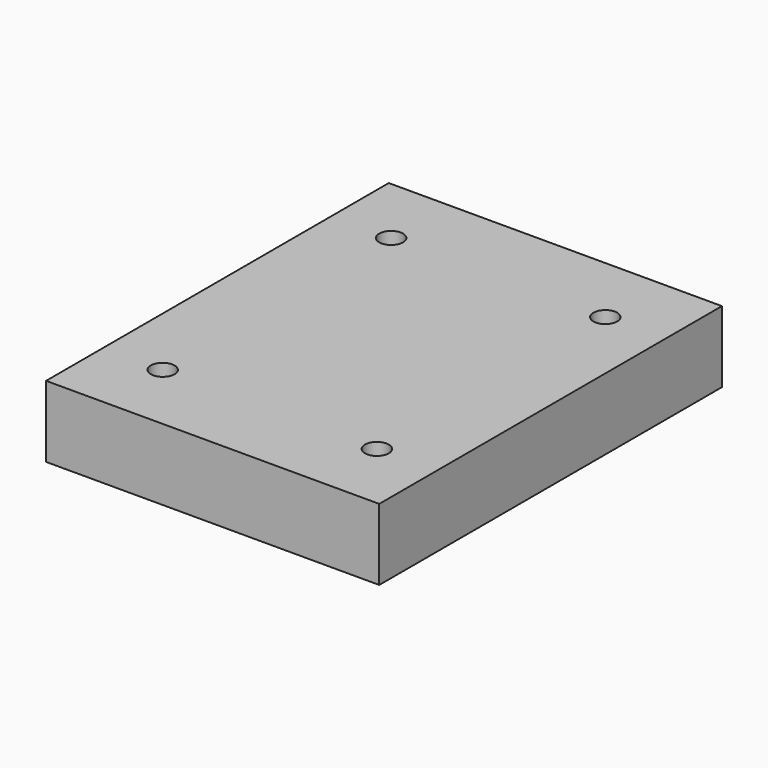
from build123d import *

# Parameters (mm, degrees)
F0_W     = 70
F0_H     = 90
F1_DEPTH = 15
F3_D     = 5
F3_DEPTH = 25


with BuildPart() as f1:
    # F0 (on Top) → F1 (new body)
    with BuildSketch(Plane.XY):
        Rectangle(F0_W, F0_H)
    extrude(amount=F1_DEPTH)

    # F3
    with Locations(Plane.XY.offset(15)):
        with Locations((-22.5, -30), (22.5, -30), (22.5, 30), (-22.5, 30)):
            Hole(F3_D / 2, depth=F3_DEPTH)


solid = f1.part
